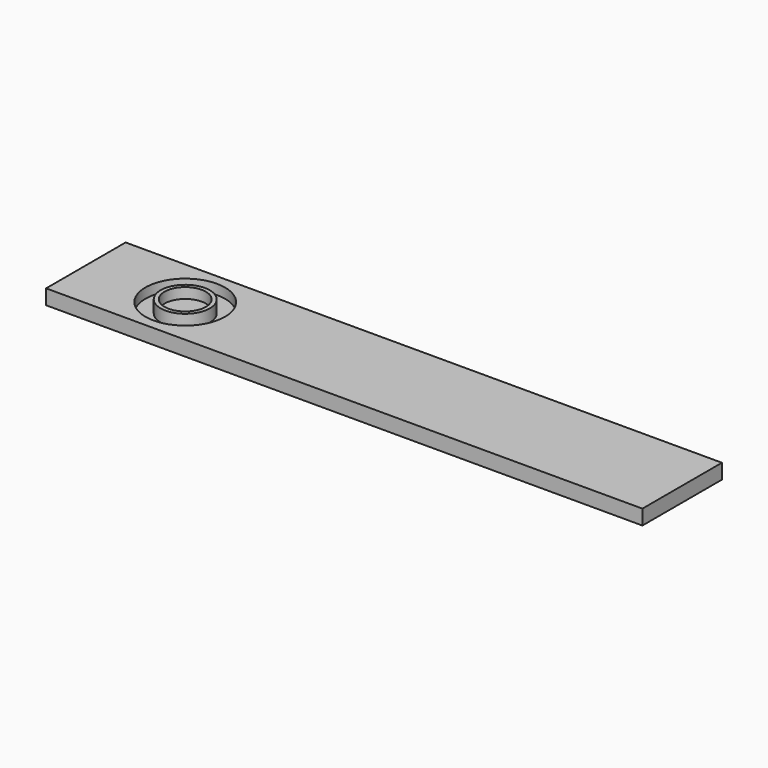
from build123d import *

# Parameters (mm, degrees)
F0_W      = 120
F0_H      = 20
F1_DEPTH  = 3
F2_R      = 8
F3_DEPTH  = 2
F4_R      = 4.95
F4_R_2    = 4.15
F5_DEPTH  = 2.5
F5_FACE_R = 4.15
F6_DEPTH  = 0.4


with BuildPart() as f1:
    # F0 (on Top) → F1 (new body)
    with BuildSketch(Plane.XY):
        Rectangle(F0_W, F0_H)
    extrude(amount=F1_DEPTH)

    # F2 (on face) → F3 (cut)
    with BuildSketch(Plane.XY.offset(3)):
        with Locations((-40, 0)):
            Circle(F2_R)
    extrude(amount=-F3_DEPTH, mode=Mode.SUBTRACT)

    # F4 (on face) → F5 (join)
    with BuildSketch(Plane.XY.offset(1)):
        with Locations((-40, 0)):
            Circle(F4_R)
        with Locations((-40, 0)):
            Circle(F4_R_2, mode=Mode.SUBTRACT)
    extrude(amount=F5_DEPTH)

    # F5_face (on face) → F6 (join)
    with BuildSketch(Plane(origin=(-40, 0, 1), x_dir=(1, 0, 0), z_dir=(0, 0, 1))):
        Circle(F5_FACE_R)
    extrude(amount=F6_DEPTH)


solid = f1.part
